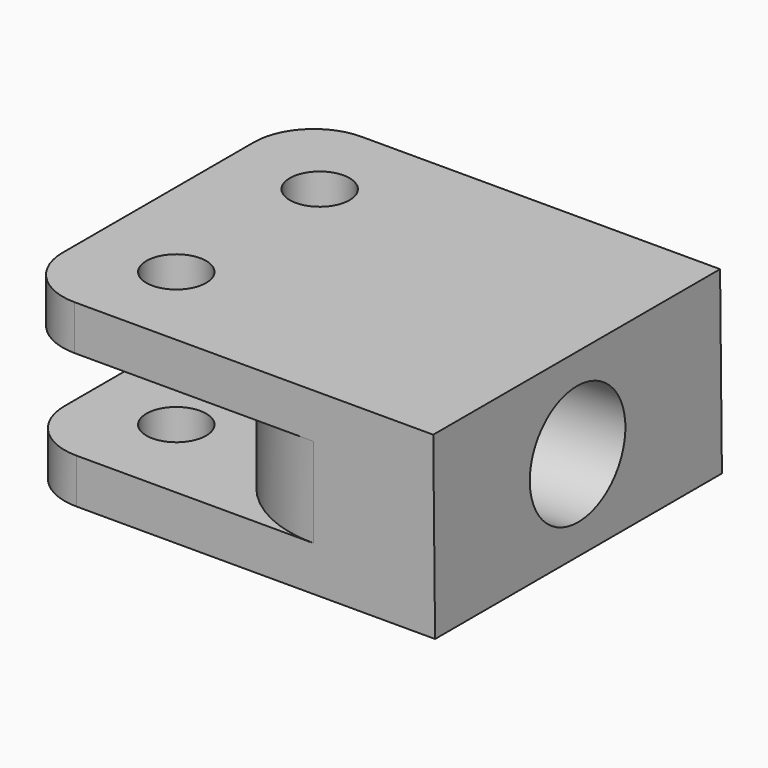
from build123d import *

# Parameters (mm, degrees)
F1_DEPTH = 38.1
F2_R     = 3.175
F3_DEPTH = 25.4
F4_R     = 6.35
F6_DEPTH = 12.7
F7_R     = 12.7
F8_R     = 12.7


with BuildPart() as f1:
    # F0 (on Front) → F1 (new body)
    with BuildSketch(Plane.XZ):
        Polygon((19.5751538399, 3.9005766285), (19.3787731311, 22.9495643868), (-25.0712268689, 22.9495643868), (-25.0712268689, 18.1870643868), (-6.0212268689, 18.1870643868), (-6.0212268689, 8.6620643868), (-24.8748461601, 8.6620643868), (-24.8748461601, 3.9005766285), align=None)
    extrude(amount=-F1_DEPTH)

    # F2 (on face) → F3 (cut)
    with BuildSketch(Plane.XY.offset(22.9495643868)):
        with Locations((-15.5462268689, 28.575)):
            Circle(F2_R)
        with Locations((-15.5462268689, 9.525)):
            Circle(F2_R)
    extrude(amount=-F3_DEPTH, mode=Mode.SUBTRACT)

    # F4
    f4_edges = [f1.edges().sort_by_distance(p)[0] for p in [
        (-25.071227, 0, 20.568314),
        (-24.874846, 0, 6.281321),
        (-24.874846, 38.1, 6.281321),
        (-25.071227, 38.1, 20.568314),
    ]]
    fillet(f4_edges, radius=F4_R)

    # F5 (on face) → F6 (cut)
    with BuildSketch(Plane(origin=(19.613281335, 0, 0.2021981503), x_dir=(0, 1, 0), z_dir=(0.999946864, 0, 0.0103086986))):
        with BuildLine():
            Line((12.7, 13.2235750059), (25.4, 13.2235750059))
            ThreePointArc((25.4, 13.2235750059), (19.05, 19.5735750059), (12.7, 13.2235750059))
        make_face()
        with BuildLine():
            ThreePointArc((12.7, 13.2235750059), (19.05, 6.8735750059), (25.4, 13.2235750059))
            Line((25.4, 13.2235750059), (12.7, 13.2235750059))
        make_face()
    extrude(amount=-F6_DEPTH, mode=Mode.SUBTRACT)

    # F7
    f7_edges = [f1.edges().sort_by_distance(p)[0] for p in [
        (-6.021227, 0, 13.424564),
    ]]
    fillet(f7_edges, radius=F7_R)

    # F8
    f8_edges = [f1.edges().sort_by_distance(p)[0] for p in [
        (-6.021227, 38.1, 13.424564),
    ]]
    fillet(f8_edges, radius=F8_R)


solid = f1.part
